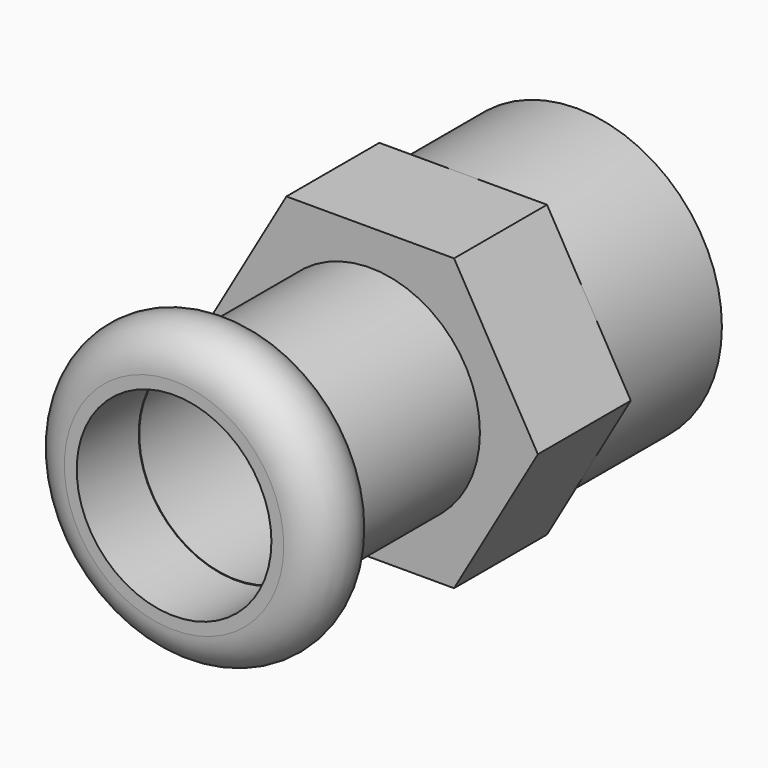
from build123d import *

# Parameters (mm, degrees)
F0_R     = 11.25
F0_R_2   = 8.25
F1_DEPTH = 11
F2_R     = 8.25
F3_DEPTH = 9
F4_R     = 8.5
F4_R_2   = 7.5
F5_DEPTH = 13


with BuildPart() as f1:
    # F0 (on Front) → F1 (new body)
    with BuildSketch(Plane.XZ):
        Circle(F0_R)
        Circle(F0_R_2, mode=Mode.SUBTRACT)
    extrude(amount=F1_DEPTH)

    # F2 (on face) → F3 (join)
    with BuildSketch(Plane.XZ.offset(11)):
        Polygon((6.495191, 11.25), (-6.495191, 11.25), (-12.990381, 0), (-6.495191, -11.25), (6.495191, -11.25), (12.990381, 0), align=None)
        Circle(F2_R, mode=Mode.SUBTRACT)
    extrude(amount=F3_DEPTH)

    # F4 (on face) → F5 (join)
    with BuildSketch(Plane.XZ.offset(20)):
        Circle(F4_R)
        Circle(F4_R_2, mode=Mode.SUBTRACT)
    extrude(amount=F5_DEPTH)

    # F6 (on Top) → F7 (revolve)
    with BuildSketch(Plane.XY):
        with BuildLine():
            Line((7.544115, -39), (8.5, -39))
            ThreePointArc((8.5, -39), (11.5, -36), (8.5, -33))
            Line((8.5, -33), (7.544115, -33))
            Line((7.544115, -33), (7.544115, -39))
        make_face()
    revolve(axis=Axis((0, -35.327807, 0), (0, 1, 0)))


solid = f1.part
